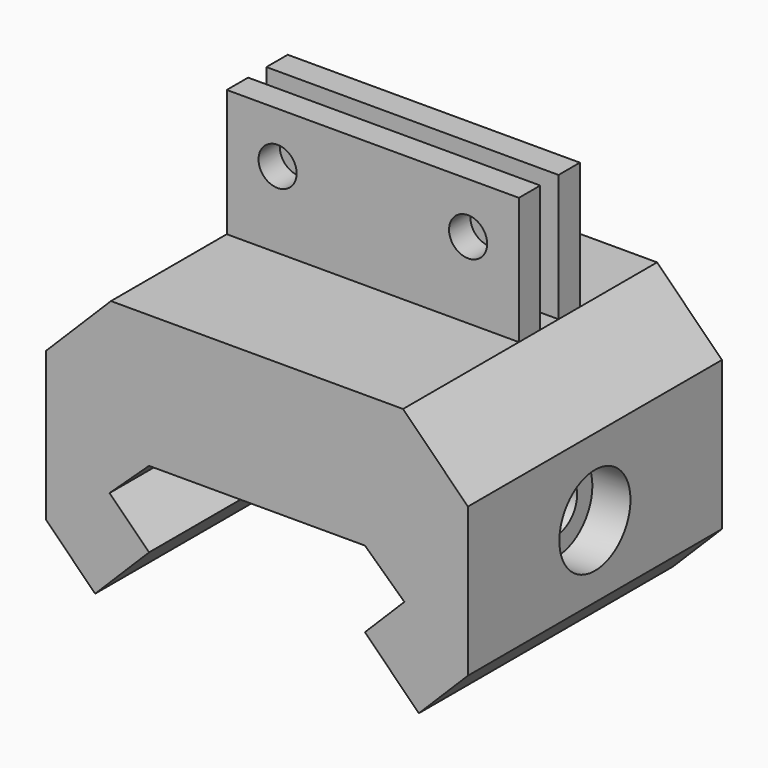
from build123d import *

# Parameters (mm, degrees)
F1_DEPTH  = 25
F2_W      = 7.596032
F2_H      = 21.10009
F2_W_2    = 10.268714
F2_H_2    = 30.102797
F3_DEPTH  = 25
F4_R      = 2
F5_DEPTH  = 35
F6_R      = 3.5
F7_DEPTH  = 3
F9_DEPTH  = 3
F10_W     = 23
F10_H     = 6
F11_DEPTH = 10
F12_W     = 23
F12_H     = 1.8
F13_DEPTH = 10
F14_R     = 1.5
F15_DEPTH = 25


with BuildPart() as f1:
    # F0 (on Front) → F1 (new body)
    with BuildSketch(Plane.XZ):
        Polygon((-11.604762, -2.895238), (-8.5, 0), (8.5, 0), (11.604762, -2.895238), (8.5, -6), (12.742641, -10.242641), (22.464761, -0.520521), (11.5, 10.44424), (-11.5, 10.44424), (-22.464761, -0.520521), (-12.742641, -10.242641), (-8.5, -6), align=None)
    extrude(amount=F1_DEPTH)

    # F2 (on face) → F3 (cut)
    with BuildSketch(Plane.XZ.offset(25)):
        with Locations((-20.402778, -0.557668)):
            Rectangle(F2_W, F2_H)
        with Locations((21.739119, -1.542339)):
            Rectangle(F2_W_2, F2_H_2)
    extrude(amount=-F3_DEPTH, mode=Mode.SUBTRACT)

    # F4 (on face) → F5 (cut)
    with BuildSketch(Plane.YZ.offset(16.604762)):
        with Locations((-12.5, -0.695238)):
            Circle(F4_R)
    extrude(amount=-F5_DEPTH, mode=Mode.SUBTRACT)

    # F6 (on face) → F7 (cut)
    with BuildSketch(Plane.YZ.offset(16.604762)):
        with Locations((-12.5, -0.695238)):
            Circle(F6_R)
    extrude(amount=-F7_DEPTH, mode=Mode.SUBTRACT)

    # F8 (on face) → F9 (cut)
    with BuildSketch(Plane(origin=(-16.604762, 0, 0), x_dir=(0, -1, 0), z_dir=(-1, 0, 0))):
        Polygon((15.321942, -3.588329), (16.416462, 0.30209), (13.59452, 3.195181), (9.678058, 2.197854), (8.583538, -1.692565), (11.40548, -4.585657), align=None)
    extrude(amount=-F9_DEPTH, mode=Mode.SUBTRACT)

    # F10 (on face) → F11 (join)
    with BuildSketch(Plane.XY.offset(10.44424)):
        with Locations((0, -10.598838)):
            Rectangle(F10_W, F10_H)
    extrude(amount=F11_DEPTH)

    # F12 (on face) → F13 (cut)
    with BuildSketch(Plane.XY.offset(20.44424)):
        with Locations((0, -10.598838)):
            Rectangle(F12_W, F12_H)
    extrude(amount=-F13_DEPTH, mode=Mode.SUBTRACT)

    # F14 (on face) → F15 (cut)
    with BuildSketch(Plane(origin=(0, -7.598838, 0), x_dir=(-1, 0, 0), z_dir=(0, 1, 0))):
        with Locations((-7.5, 16.44424)):
            Circle(F14_R)
        with Locations((7.5, 16.44424)):
            Circle(F14_R)
    extrude(amount=-F15_DEPTH, mode=Mode.SUBTRACT)


solid = f1.part
